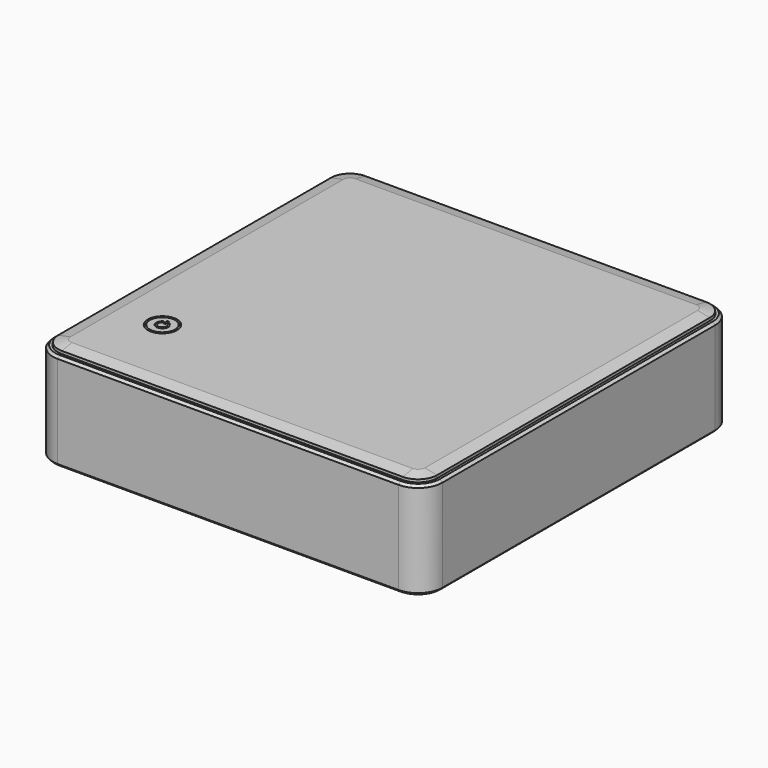
from build123d import *

# Parameters (mm, degrees)
F0_W      = 101.6
F0_H      = 101.6
F1_DEPTH  = 12.7
F2_R      = 6.35
F4_DEPTH  = 2.54
F6_DEPTH  = 3.81
F7_SIZE   = 0.635
F8_SIZE2  = 3.175
F8_SIZE   = 0.635
F9_R      = 3.81
F10_DEPTH = 3.81
F11_R     = 3.683
F12_DEPTH = 3.81
F13_SIZE  = 0.381
F14_W     = 0.508
F14_H     = 1.27
F15_DEPTH = 0.254


with BuildPart() as f1:
    # F0 (on Top) → F1 (new body, symmetric)
    with BuildSketch(Plane.XY):
        Rectangle(F0_W, F0_H)
    extrude(amount=F1_DEPTH, both=True)

    # F2
    f2_edges = [f1.edges().sort_by_distance(p)[0] for p in [
        (-50.8, 50.8, 0),
        (50.8, 50.8, 0),
        (50.8, -50.8, 0),
        (-50.8, -50.8, 0),
    ]]
    fillet(f2_edges, radius=F2_R)

    # F3 (on face) → F4 (cut)
    with BuildSketch(Plane.XY.offset(12.7)):
        with BuildLine():
            Line((44.45, 49.53), (-44.45, 49.53))
            ThreePointArc((-44.45, 49.53), (-48.0421024484, 48.0421024484), (-49.53, 44.45))
            Line((-49.53, 44.45), (-49.53, -44.45))
            ThreePointArc((-49.53, -44.45), (-48.0421024484, -48.0421024484), (-44.45, -49.53))
            Line((-44.45, -49.53), (44.45, -49.53))
            ThreePointArc((44.45, -49.53), (48.0421024484, -48.0421024484), (49.53, -44.45))
            Line((49.53, -44.45), (49.53, 44.45))
            ThreePointArc((49.53, 44.45), (48.0421024484, 48.0421024484), (44.45, 49.53))
        make_face()
    extrude(amount=-F4_DEPTH, mode=Mode.SUBTRACT)

    # F7
    f7_edges = [f1.edges().sort_by_distance(p)[0] for p in [
        (-50.8, 0, 12.7),
        (-48.940128, 48.940128, 12.7),
        (0, 50.8, 12.7),
        (48.940128, 48.940128, 12.7),
        (-50.8, 0, -12.7),
    ]]
    chamfer(f7_edges, length=F7_SIZE)

    # F11 (on face) → F12 (join)
    with BuildSketch(Plane.XY.offset(10.16)):
        with Locations((-34.925, -28.575)):
            Circle(F11_R)
    extrude(amount=F12_DEPTH)

    # F13
    f13_edges = [f1.edges().sort_by_distance(p)[0] for p in [
        (-38.608, -28.575, 13.97),
    ]]
    chamfer(f13_edges, length=F13_SIZE)

    # F14 (on face) → F15 (cut)
    with BuildSketch(Plane.XY.offset(13.97)):
        with BuildLine():
            Line((-35.3812164135, -27.5966407439), (-35.5959064905, -27.1362363881))
            ThreePointArc((-35.5959064905, -27.1362363881), (-34.925, -30.1625), (-34.2540935095, -27.1362363881))
            Line((-34.2540935095, -27.1362363881), (-34.4687835865, -27.5966407439))
            ThreePointArc((-34.4687835865, -27.5966407439), (-34.925, -29.6545), (-35.3812164135, -27.5966407439))
        make_face()
        with Locations((-34.925, -27.305)):
            Rectangle(F14_W, F14_H)
    extrude(amount=-F15_DEPTH, mode=Mode.SUBTRACT)


with BuildPart() as f6:
    # F5 (on face) → F6 (new body)
    with BuildSketch(Plane.XY.offset(10.16)):
        with BuildLine():
            ThreePointArc((-44.45, 49.403), (-47.9522998872, 47.9522998872), (-49.403, 44.45))
            Line((-49.403, 44.45), (-49.403, -44.45))
            ThreePointArc((-49.403, -44.45), (-47.9522998872, -47.9522998872), (-44.45, -49.403))
            Line((-44.45, -49.403), (44.45, -49.403))
            ThreePointArc((44.45, -49.403), (47.9522998872, -47.9522998872), (49.403, -44.45))
            Line((49.403, -44.45), (49.403, 44.45))
            ThreePointArc((49.403, 44.45), (47.9522998872, 47.9522998872), (44.45, 49.403))
            Line((44.45, 49.403), (-44.45, 49.403))
        make_face()
    extrude(amount=F6_DEPTH)

    # F8
    f8_edges = [f6.edges().sort_by_distance(p)[0] for p in [
        (-49.403, 0, 13.97),
    ]]
    f8_side = f6.faces().sort_by_distance((-49.403, 0, 12.065))[0]
    chamfer(f8_edges, length=F8_SIZE, length2=F8_SIZE2, reference=f8_side)

    # F9 (on face) → F10 (cut)
    with BuildSketch(Plane.XY.offset(13.97)):
        with Locations((-34.925, -28.575)):
            Circle(F9_R)
    extrude(amount=-F10_DEPTH, mode=Mode.SUBTRACT)


solid = Compound([f1.part, f6.part])
